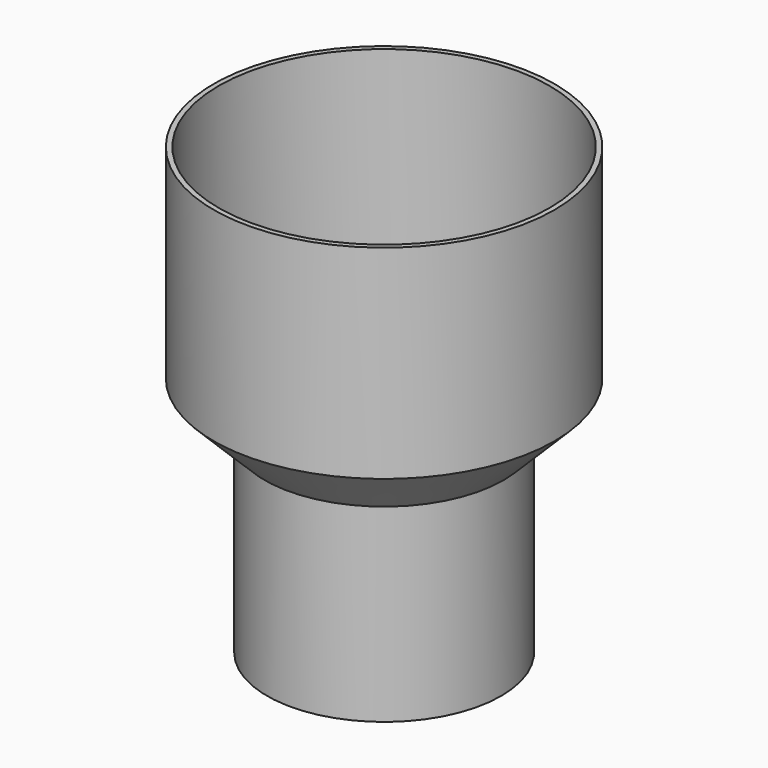
from build123d import *

# Parameters (mm, degrees)
F0_R     = 11.684
F1_DEPTH = 19.05
F2_R     = 17.018
F2_R_2   = 11.684
F3_DEPTH = 25.4
F4_SIZE2 = 5.08
F4_SIZE  = 5.08
F5_T     = -0.508


with BuildPart() as f1:
    # F0 (on Top) → F1 (new body)
    with BuildSketch(Plane.XY):
        Circle(F0_R)
    extrude(amount=F1_DEPTH)

    # F2 (on face) → F3 (join)
    with BuildSketch(Plane.XY.offset(19.05)):
        Circle(F2_R)
        Circle(F2_R_2, mode=Mode.SUBTRACT)
        Circle(F2_R_2)
    extrude(amount=F3_DEPTH)

    # F4
    f4_edges = [f1.edges().sort_by_distance(p)[0] for p in [
        (-17.018, 0, 19.05),
    ]]
    chamfer(f4_edges, length=F4_SIZE, length2=F4_SIZE2)

    # F5
    f5_openings = [f1.faces().sort_by_distance(p)[0] for p in [
        (0, 0, 44.45),
        (0, 0, 0),
    ]]
    offset(amount=F5_T, openings=f5_openings, kind=Kind.INTERSECTION)


solid = f1.part
